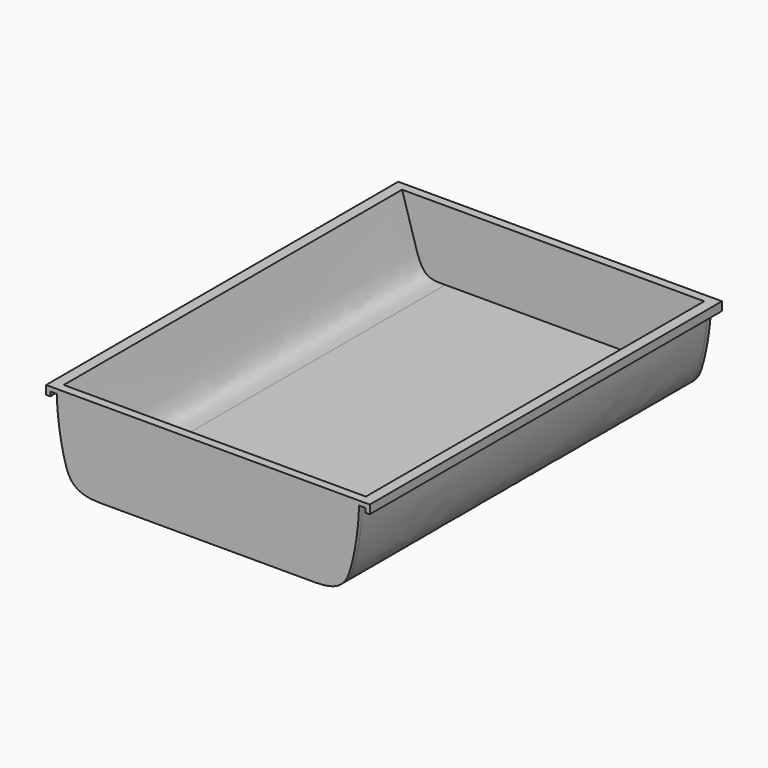
from build123d import *

# Parameters (mm, degrees)
F0_W     = 1
F0_H     = 1
F1_DEPTH = 100
F3_DEPTH = 1


with BuildPart() as f1:
    # F0 (on Front) → F1 (new body)
    with BuildSketch(Plane.XZ):
        with BuildLine():
            add(Edge.make_bspline(
                [(-25, 0), (-31.0571533825, 0), (-33.5724792203, 5.3372634662), (-34.9458986693, 14.8072108202), (-35, 19)],
                knots=[0, 0, 0, 0, 0.4601745269, 0.959678351, 0.959678351, 0.959678351, 0.959678351], degree=3))
            Line((-25, 0), (0, 0))
            Line((0, 0), (25, 0))
            add(Edge.make_bspline(
                [(25, 0), (31.0571533825, 0), (33.5724792203, 5.3372634662), (34.9458986693, 14.8072108202), (35, 19)],
                knots=[0, 0, 0, 0, 0.4601745269, 0.959678351, 0.959678351, 0.959678351, 0.959678351], degree=3))
            add(Edge.make_bspline(
                [(35, 19), (35.0043672436, 19.338456215), (35.0044288568, 19.672114945), (35, 20)],
                knots=[0.959678351, 0.959678351, 0.959678351, 0.959678351, 1, 1, 1, 1], degree=3))
            add(Edge.make_bspline(
                [(25, 3.8304927293), (26.6068548069, 3.8304927293), (30.2022112297, 3.6251652991), (32.3451633939, 11.2127971956), (34.0650589972, 16.9015645999), (35, 20)],
                knots=[0, 0, 0, 0, 0.2691210669, 0.6027369485, 1, 1, 1, 1], degree=3))
            Line((25, 3.8304927293), (0, 3.8304927293))
            Line((0, 3.8304927293), (-25, 3.8304927293))
            add(Edge.make_bspline(
                [(-25, 3.8304927293), (-26.6068548069, 3.8304927293), (-30.2022112297, 3.6251652991), (-32.3451633939, 11.2127971956), (-34.0650589972, 16.9015645999), (-35, 20)],
                knots=[0, 0, 0, 0, 0.2691210669, 0.6027369485, 1, 1, 1, 1], degree=3))
            add(Edge.make_bspline(
                [(-35, 19), (-35.0043672436, 19.338456215), (-35.0044288568, 19.672114945), (-35, 20)],
                knots=[0.959678351, 0.959678351, 0.959678351, 0.959678351, 1, 1, 1, 1], degree=3))
        make_face()
        with BuildLine():
            Line((-36.5, 19), (-35, 19))
            add(Edge.make_bspline(
                [(-35, 19), (-35.0043672436, 19.338456215), (-35.0044288568, 19.672114945), (-35, 20)],
                knots=[0.959678351, 0.959678351, 0.959678351, 0.959678351, 1, 1, 1, 1], degree=3))
            Line((-35, 20), (-37.5, 20))
            Line((-37.5, 20), (-37.5, 19))
            Line((-37.5, 19), (-36.5, 19))
        make_face()
        with BuildLine():
            add(Edge.make_bspline(
                [(35, 19), (35.0043672436, 19.338456215), (35.0044288568, 19.672114945), (35, 20)],
                knots=[0.959678351, 0.959678351, 0.959678351, 0.959678351, 1, 1, 1, 1], degree=3))
            Line((35, 19), (36.5, 19))
            Line((36.5, 19), (37.5, 19))
            Line((37.5, 19), (37.5, 20))
            Line((37.5, 20), (35, 20))
        make_face()
        with Locations((-37, 18.5)):
            Rectangle(F0_W, F0_H)
        with Locations((37, 18.5)):
            Rectangle(F0_W, F0_H)
    extrude(amount=F1_DEPTH)

    # F1_face (on face) + F0 (on Front) + F2 (on face) → F3 (join, symmetric)
    with BuildSketch(Plane(origin=(0, -100, 3.8022780085), x_dir=(1, 0, 0), z_dir=(0, -1, 0))):
        with BuildLine():
            Line((25, 0.0282147208), (-25, 0.0282147208))
            add(Edge.make_bspline(
                [(-25, 0.0282147208), (-26.6068548069, 0.0282147208), (-30.2022112297, -0.1771127094), (-32.3451633939, 7.4105191871), (-34.0650589972, 13.0992865914), (-35, 16.1977219915)],
                knots=[0, 0, 0, 0, 0.2691210669, 0.6027369485, 1, 1, 1, 1], degree=3))
            Line((-35, 16.1977219915), (-37.5, 16.1977219915))
            Line((-37.5, 16.1977219915), (-37.5, 14.1977219915))
            Line((-37.5, 14.1977219915), (-36.5, 14.1977219915))
            Line((-36.5, 14.1977219915), (-36.5, 15.1977219915))
            Line((-36.5, 15.1977219915), (-35, 15.1977219915))
            add(Edge.make_bspline(
                [(-25, -3.8022780085), (-31.0571533825, -3.8022780085), (-33.5724792203, 1.5349854577), (-34.9458986693, 11.0049328117), (-35, 15.1977219915)],
                knots=[0, 0, 0, 0, 0.4601745269, 0.959678351, 0.959678351, 0.959678351, 0.959678351], degree=3))
            Line((-25, -3.8022780085), (25, -3.8022780085))
            add(Edge.make_bspline(
                [(25, -3.8022780085), (31.0571533825, -3.8022780085), (33.5724792203, 1.5349854577), (34.9458986693, 11.0049328117), (35, 15.1977219915)],
                knots=[0, 0, 0, 0, 0.4601745269, 0.959678351, 0.959678351, 0.959678351, 0.959678351], degree=3))
            Line((35, 15.1977219915), (36.5, 15.1977219915))
            Line((36.5, 15.1977219915), (36.5, 14.1977219915))
            Line((36.5, 14.1977219915), (37.5, 14.1977219915))
            Line((37.5, 14.1977219915), (37.5, 16.1977219915))
            Line((37.5, 16.1977219915), (35, 16.1977219915))
            add(Edge.make_bspline(
                [(25, 0.0282147208), (26.6068548069, 0.0282147208), (30.2022112297, -0.1771127094), (32.3451633939, 7.4105191871), (34.0650589972, 13.0992865914), (35, 16.1977219915)],
                knots=[0, 0, 0, 0, 0.2691210669, 0.6027369485, 1, 1, 1, 1], degree=3))
        make_face()
    with BuildSketch(Plane.XZ):
        with BuildLine():
            add(Edge.make_bspline(
                [(-25, 0), (-31.0571533825, 0), (-33.5724792203, 5.3372634662), (-34.9458986693, 14.8072108202), (-35, 19)],
                knots=[0, 0, 0, 0, 0.4601745269, 0.959678351, 0.959678351, 0.959678351, 0.959678351], degree=3))
            Line((-25, 0), (0, 0))
            Line((0, 0), (25, 0))
            add(Edge.make_bspline(
                [(25, 0), (31.0571533825, 0), (33.5724792203, 5.3372634662), (34.9458986693, 14.8072108202), (35, 19)],
                knots=[0, 0, 0, 0, 0.4601745269, 0.959678351, 0.959678351, 0.959678351, 0.959678351], degree=3))
            add(Edge.make_bspline(
                [(35, 19), (35.0043672436, 19.338456215), (35.0044288568, 19.672114945), (35, 20)],
                knots=[0.959678351, 0.959678351, 0.959678351, 0.959678351, 1, 1, 1, 1], degree=3))
            add(Edge.make_bspline(
                [(25, 3.8304927293), (26.6068548069, 3.8304927293), (30.2022112297, 3.6251652991), (32.3451633939, 11.2127971956), (34.0650589972, 16.9015645999), (35, 20)],
                knots=[0, 0, 0, 0, 0.2691210669, 0.6027369485, 1, 1, 1, 1], degree=3))
            Line((25, 3.8304927293), (0, 3.8304927293))
            Line((0, 3.8304927293), (-25, 3.8304927293))
            add(Edge.make_bspline(
                [(-25, 3.8304927293), (-26.6068548069, 3.8304927293), (-30.2022112297, 3.6251652991), (-32.3451633939, 11.2127971956), (-34.0650589972, 16.9015645999), (-35, 20)],
                knots=[0, 0, 0, 0, 0.2691210669, 0.6027369485, 1, 1, 1, 1], degree=3))
            add(Edge.make_bspline(
                [(-35, 19), (-35.0043672436, 19.338456215), (-35.0044288568, 19.672114945), (-35, 20)],
                knots=[0.959678351, 0.959678351, 0.959678351, 0.959678351, 1, 1, 1, 1], degree=3))
        make_face()
        with BuildLine():
            Line((-36.5, 19), (-35, 19))
            add(Edge.make_bspline(
                [(-35, 19), (-35.0043672436, 19.338456215), (-35.0044288568, 19.672114945), (-35, 20)],
                knots=[0.959678351, 0.959678351, 0.959678351, 0.959678351, 1, 1, 1, 1], degree=3))
            Line((-35, 20), (-37.5, 20))
            Line((-37.5, 20), (-37.5, 19))
            Line((-37.5, 19), (-36.5, 19))
        make_face()
        with BuildLine():
            Line((35, 20), (-35, 20))
            add(Edge.make_bspline(
                [(-25, 3.8304927293), (-26.6068548069, 3.8304927293), (-30.2022112297, 3.6251652991), (-32.3451633939, 11.2127971956), (-34.0650589972, 16.9015645999), (-35, 20)],
                knots=[0, 0, 0, 0, 0.2691210669, 0.6027369485, 1, 1, 1, 1], degree=3))
            Line((-25, 3.8304927293), (0, 3.8304927293))
            Line((0, 3.8304927293), (25, 3.8304927293))
            add(Edge.make_bspline(
                [(25, 3.8304927293), (26.6068548069, 3.8304927293), (30.2022112297, 3.6251652991), (32.3451633939, 11.2127971956), (34.0650589972, 16.9015645999), (35, 20)],
                knots=[0, 0, 0, 0, 0.2691210669, 0.6027369485, 1, 1, 1, 1], degree=3))
        make_face()
        with Locations((-37, 18.5)):
            Rectangle(F0_W, F0_H)
        with BuildLine():
            add(Edge.make_bspline(
                [(35, 19), (35.0043672436, 19.338456215), (35.0044288568, 19.672114945), (35, 20)],
                knots=[0.959678351, 0.959678351, 0.959678351, 0.959678351, 1, 1, 1, 1], degree=3))
            Line((35, 19), (36.5, 19))
            Line((36.5, 19), (37.5, 19))
            Line((37.5, 19), (37.5, 20))
            Line((37.5, 20), (35, 20))
        make_face()
        with Locations((37, 18.5)):
            Rectangle(F0_W, F0_H)
    with BuildSketch(Plane.XZ.offset(100)):
        with BuildLine():
            Line((35, 20), (-35, 20))
            add(Edge.make_bspline(
                [(-25, 3.8304927293), (-26.6068548069, 3.8304927293), (-30.2022112297, 3.6251652991), (-32.3451633939, 11.2127971956), (-34.0650589972, 16.9015645999), (-35, 20)],
                knots=[0, 0, 0, 0, 0.2691210669, 0.6027369485, 1, 1, 1, 1], degree=3))
            Line((-25, 3.8304927293), (25, 3.8304927293))
            add(Edge.make_bspline(
                [(25, 3.8304927293), (26.6068548069, 3.8304927293), (30.2022112297, 3.6251652991), (32.3451633939, 11.2127971956), (34.0650589972, 16.9015645999), (35, 20)],
                knots=[0, 0, 0, 0, 0.2691210669, 0.6027369485, 1, 1, 1, 1], degree=3))
        make_face()
    extrude(amount=F3_DEPTH, both=True)


solid = f1.part
